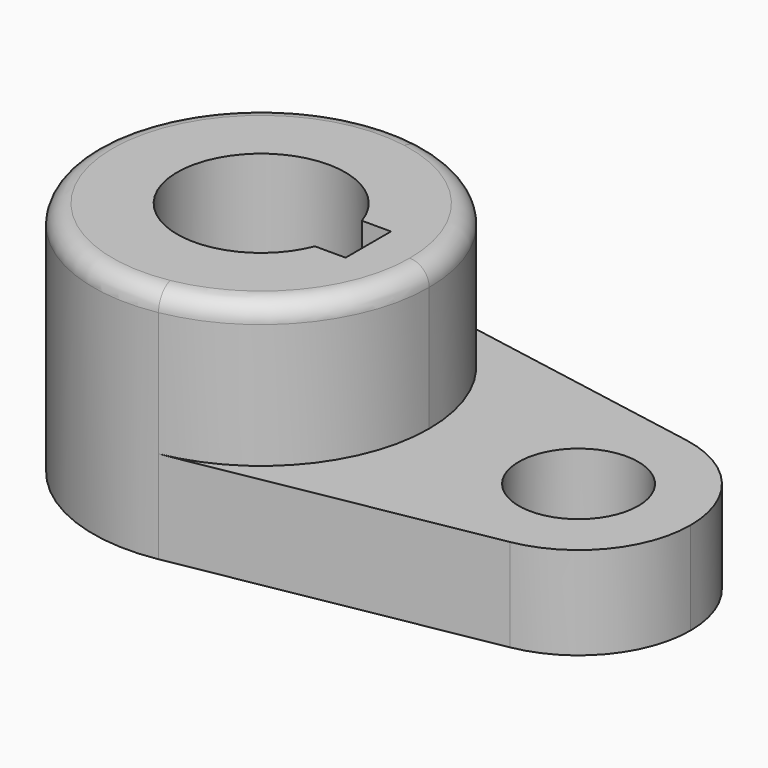
from build123d import *

# Parameters (mm, degrees)
F0_R     = 10.16
F1_DEPTH = 15.7734
F2_DEPTH = 40.2336
F3_DEPTH = 40.2346
F4_DEPTH = 25.4
F5_R     = 3.302


with BuildPart() as f1:
    # F0 (on Top) → F1 (new body)
    with BuildSketch(Plane.XY):
        with BuildLine():
            ThreePointArc((-26.278611, 28.126541), (-9.405233, 18.336262), (-2.746258, 0))
            ThreePointArc((-2.746258, 0), (-9.405233, -18.336262), (-26.278611, -28.126541))
            Line((-26.278611, -28.126541), (26.015507, -18.751028))
            ThreePointArc((26.015507, -18.751028), (3.603742, 0), (26.015507, 18.751028))
            Line((26.015507, 18.751028), (-26.278611, 28.126541))
        make_face()
        with BuildLine():
            ThreePointArc((-26.278611, -28.126541), (-9.405233, -18.336262), (-2.746258, 0))
            ThreePointArc((-2.746258, 0), (-9.405233, 18.336262), (-26.278611, 28.126541))
            ThreePointArc((-26.278611, 28.126541), (-59.896258, 0), (-26.278611, -28.126541))
        make_face()
        with BuildLine():
            ThreePointArc((-18.019436, -5.214805), (-45.602785, 0.413106), (-17.740244, 4.437195))
            Line((-17.740244, 4.437195), (-12.791958, 4.437195))
            Line((-12.791958, 4.437195), (-12.791958, -5.214805))
            Line((-12.791958, -5.214805), (-18.019436, -5.214805))
        make_face(mode=Mode.SUBTRACT)
        with BuildLine():
            ThreePointArc((-18.019436, -5.214805), (-17.28234, -2.653571), (-17.033758, 0))
            ThreePointArc((-17.033758, 0), (-17.211485, 2.246543), (-17.740244, 4.437195))
            Line((-17.740244, 4.437195), (-31.321258, 4.437195))
            Line((-31.321258, 4.437195), (-31.321258, -5.214805))
            Line((-31.321258, -5.214805), (-18.019436, -5.214805))
        make_face()
        with Locations((22.653742, 0)):
            Circle(F0_R)
        with BuildLine():
            Line((-31.321258, 4.437195), (-17.740244, 4.437195))
            ThreePointArc((-17.740244, 4.437195), (-45.602785, 0.413106), (-18.019436, -5.214805))
            Line((-18.019436, -5.214805), (-31.321258, -5.214805))
            Line((-31.321258, -5.214805), (-31.321258, 4.437195))
        make_face()
        with BuildLine():
            ThreePointArc((-17.740244, 4.437195), (-17.211485, 2.246543), (-17.033758, 0))
            ThreePointArc((-17.033758, 0), (-17.28234, -2.653571), (-18.019436, -5.214805))
            Line((-18.019436, -5.214805), (-12.791958, -5.214805))
            Line((-12.791958, -5.214805), (-12.791958, 4.437195))
            Line((-12.791958, 4.437195), (-17.740244, 4.437195))
        make_face()
        with BuildLine():
            ThreePointArc((41.703742, 0), (37.264425, 12.224174), (26.015507, 18.751028))
            ThreePointArc((26.015507, 18.751028), (3.603742, 0), (26.015507, -18.751028))
            ThreePointArc((26.015507, -18.751028), (37.264425, -12.224174), (41.703742, 0))
        make_face()
        with Locations((22.653742, 0)):
            Circle(F0_R, mode=Mode.SUBTRACT)
    extrude(amount=F1_DEPTH)

    # F0 (on Top) → F2 (join)
    with BuildSketch(Plane.XY):
        with BuildLine():
            ThreePointArc((-26.278611, -28.126541), (-9.405233, -18.336262), (-2.746258, 0))
            ThreePointArc((-2.746258, 0), (-9.405233, 18.336262), (-26.278611, 28.126541))
            ThreePointArc((-26.278611, 28.126541), (-59.896258, 0), (-26.278611, -28.126541))
        make_face()
        with BuildLine():
            ThreePointArc((-18.019436, -5.214805), (-45.602785, 0.413106), (-17.740244, 4.437195))
            Line((-17.740244, 4.437195), (-12.791958, 4.437195))
            Line((-12.791958, 4.437195), (-12.791958, -5.214805))
            Line((-12.791958, -5.214805), (-18.019436, -5.214805))
        make_face(mode=Mode.SUBTRACT)
    extrude(amount=F2_DEPTH)

    # F0 (on Top) → F3 (cut, through all)
    with BuildSketch(Plane.XY):
        with BuildLine():
            ThreePointArc((-18.019436, -5.214805), (-17.28234, -2.653571), (-17.033758, 0))
            ThreePointArc((-17.033758, 0), (-17.211485, 2.246543), (-17.740244, 4.437195))
            Line((-17.740244, 4.437195), (-31.321258, 4.437195))
            Line((-31.321258, 4.437195), (-31.321258, -5.214805))
            Line((-31.321258, -5.214805), (-18.019436, -5.214805))
        make_face()
        with BuildLine():
            ThreePointArc((-17.740244, 4.437195), (-17.211485, 2.246543), (-17.033758, 0))
            ThreePointArc((-17.033758, 0), (-17.28234, -2.653571), (-18.019436, -5.214805))
            Line((-18.019436, -5.214805), (-12.791958, -5.214805))
            Line((-12.791958, -5.214805), (-12.791958, 4.437195))
            Line((-12.791958, 4.437195), (-17.740244, 4.437195))
        make_face()
        with BuildLine():
            Line((-31.321258, 4.437195), (-17.740244, 4.437195))
            ThreePointArc((-17.740244, 4.437195), (-45.602785, 0.413106), (-18.019436, -5.214805))
            Line((-18.019436, -5.214805), (-31.321258, -5.214805))
            Line((-31.321258, -5.214805), (-31.321258, 4.437195))
        make_face()
    extrude(amount=F3_DEPTH, mode=Mode.SUBTRACT)

    # F0 (on Top) → F4 (cut)
    with BuildSketch(Plane.XY):
        with Locations((22.653742, 0)):
            Circle(F0_R)
    extrude(amount=F4_DEPTH, mode=Mode.SUBTRACT)

    # F5
    f5_edges = [f1.edges().sort_by_distance(p)[0] for p in [
        (-36.363905, 28.126541, 40.2336),
    ]]
    fillet(f5_edges, radius=F5_R)


solid = f1.part
